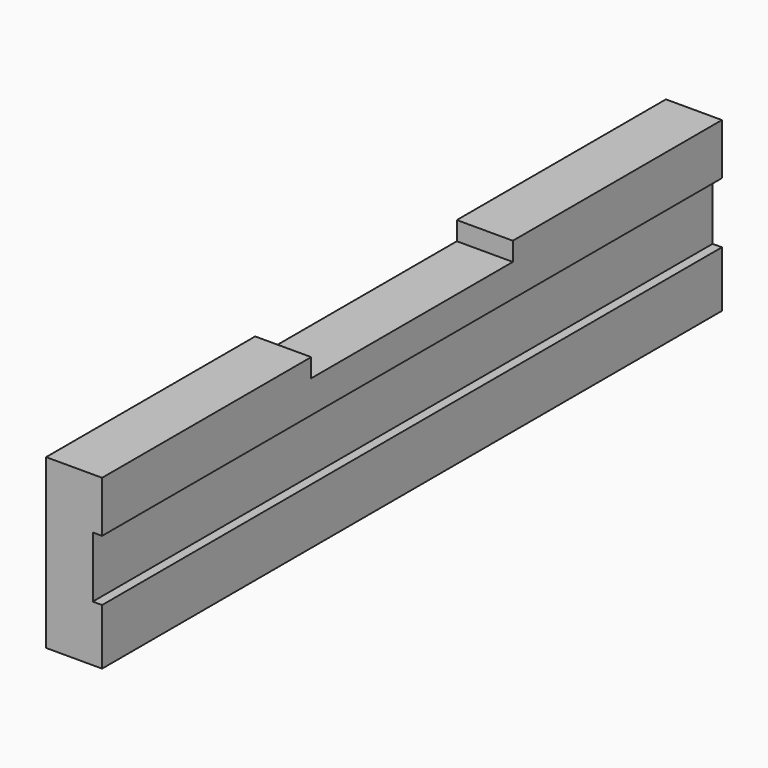
from build123d import *

# Parameters (mm, degrees)
F0_W     = 263.525
F0_H     = 57.15
F1_DEPTH = 19.05
F2_W     = 263.525
F2_H     = 20.701
F3_DEPTH = 3.175
F4_W     = 85.725
F4_H     = 6.35
F5_DEPTH = 19.05


with BuildPart() as f1:
    # F0 (on Right) → F1 (new body)
    with BuildSketch(Plane.YZ):
        Rectangle(F0_W, F0_H)
    extrude(amount=F1_DEPTH)

    # F2 (on face) → F3 (cut)
    with BuildSketch(Plane.YZ.offset(19.05)):
        with Locations((0, 0.8255)):
            Rectangle(F2_W, F2_H)
    extrude(amount=-F3_DEPTH, mode=Mode.SUBTRACT)

    # F4 (on face) → F5 (cut, through all)
    with BuildSketch(Plane.YZ.offset(19.05)):
        with Locations((0, 25.4)):
            Rectangle(F4_W, F4_H)
    extrude(amount=-F5_DEPTH, mode=Mode.SUBTRACT)


solid = f1.part
